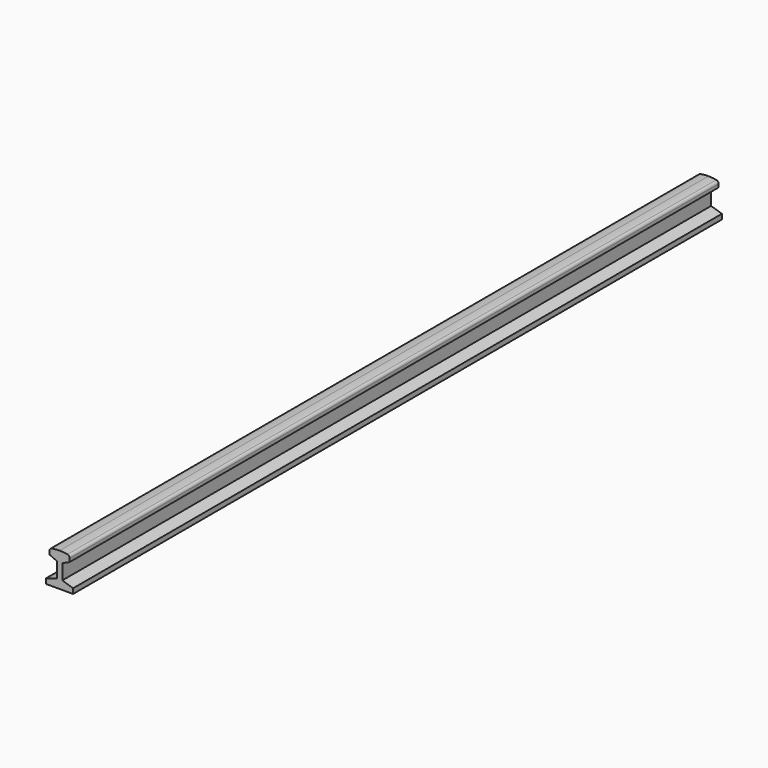
from build123d import *

# Parameters (mm, degrees)
F1_DEPTH = 304.8


with BuildPart() as f1:
    # F0 (on Front) → F1 (new body)
    with BuildSketch(Plane.XZ):
        with BuildLine():
            Line((-5.08, 0), (0, 0))
            Line((0, 0), (5.08, 0))
            Line((5.08, 0), (5.08, 1.905))
            Line((5.08, 1.905), (1.016, 3.175))
            Line((1.016, 3.175), (1.016, 8.89))
            Line((1.016, 8.89), (3.81, 10.16))
            Line((3.81, 10.16), (3.81, 11.43))
            ThreePointArc((3.81, 11.43), (3.574513, 12.080427), (2.977213, 12.429344))
            ThreePointArc((2.977213, 12.429344), (1.494745, 12.632197), (0, 12.7))
            ThreePointArc((0, 12.7), (-1.494745, 12.632197), (-2.977213, 12.429344))
            ThreePointArc((-2.977213, 12.429344), (-3.574513, 12.080427), (-3.81, 11.43))
            Line((-3.81, 11.43), (-3.81, 10.16))
            Line((-3.81, 10.16), (-1.016, 8.89))
            Line((-1.016, 8.89), (-1.016, 3.175))
            Line((-1.016, 3.175), (-5.08, 1.905))
            Line((-5.08, 1.905), (-5.08, 0))
        make_face()
    extrude(amount=F1_DEPTH)


solid = f1.part
